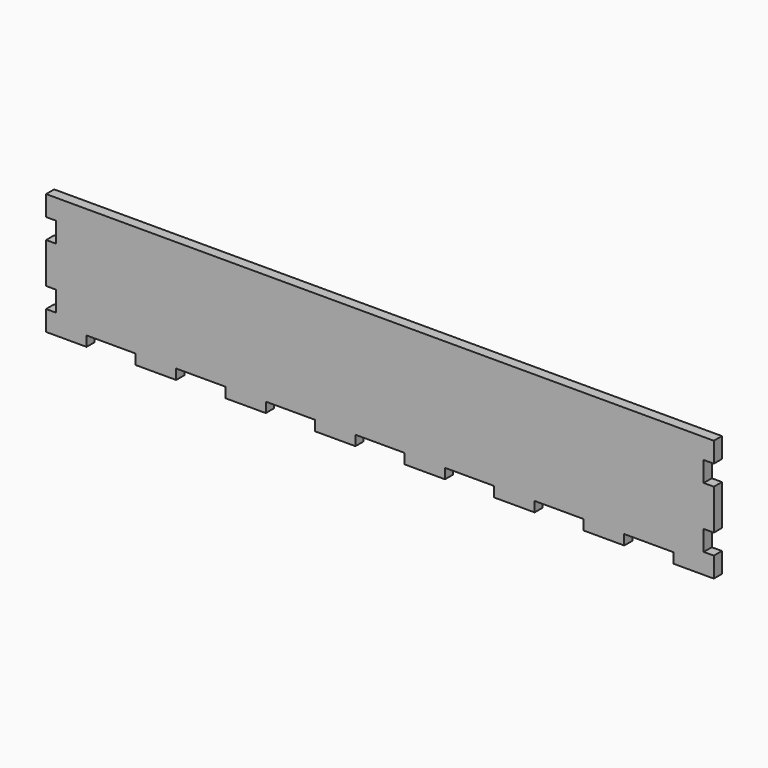
from build123d import *

# Parameters (mm, degrees)
F0_W     = 419.1
F0_H     = 76.2
F1_DEPTH = 6.35
F2_W     = 30.842857
F2_H     = 6.35
F2_W_2   = 30.842858
F2_W_3   = 6.35
F2_H_2   = 12.7
F3_DEPTH = 6.351


with BuildPart() as f1:
    # F0 (on Front) → F1 (new body)
    with BuildSketch(Plane.XZ):
        Rectangle(F0_W, F0_H)
    extrude(amount=F1_DEPTH)

    # F2 (on face) → F3 (cut, through all)
    with BuildSketch(Plane.XZ.offset(6.35)):
        with Locations((-168.728571, -34.925)):
            Rectangle(F2_W, F2_H)
        with Locations((-112.485715, -34.925)):
            Rectangle(F2_W, F2_H)
        with Locations((-56.242857, -34.925)):
            Rectangle(F2_W, F2_H)
        with Locations((0, -34.925)):
            Rectangle(F2_W_2, F2_H)
        with Locations((56.242857, -34.925)):
            Rectangle(F2_W, F2_H)
        with Locations((112.485715, -34.925)):
            Rectangle(F2_W, F2_H)
        with Locations((168.728571, -34.925)):
            Rectangle(F2_W, F2_H)
        with Locations((-206.375, -19.05)):
            Rectangle(F2_W_3, F2_H_2)
        with Locations((-206.375, 19.05)):
            Rectangle(F2_W_3, F2_H_2)
        with Locations((206.375, 19.05)):
            Rectangle(F2_W_3, F2_H_2)
        with Locations((206.375, -19.05)):
            Rectangle(F2_W_3, F2_H_2)
    extrude(amount=-F3_DEPTH, mode=Mode.SUBTRACT)


solid = f1.part
